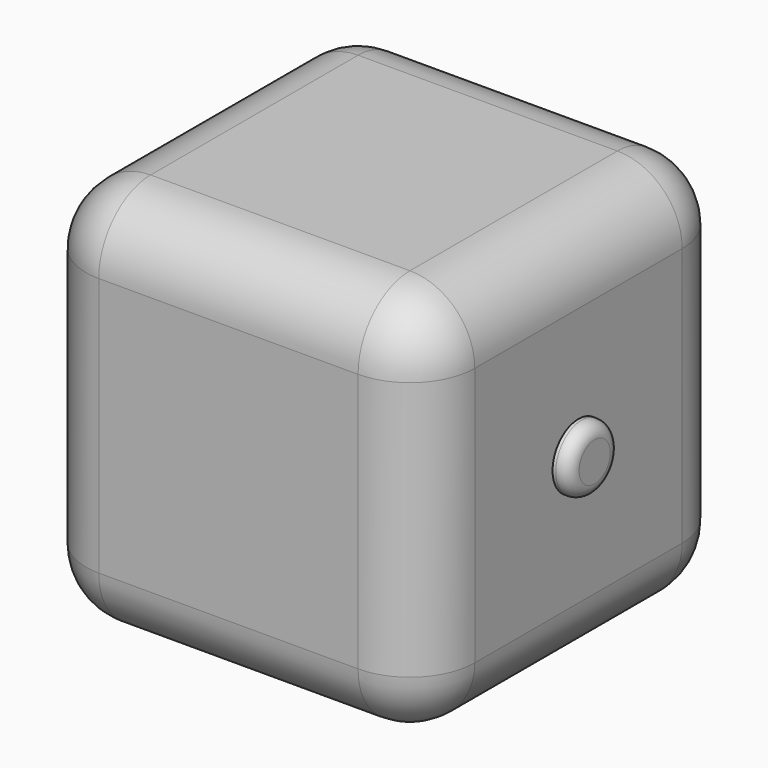
from build123d import *

# Parameters (mm, degrees)
F0_W      = 152.4
F0_H      = 152.4
F1_DEPTH  = 152.4
F2_R      = 25.4
F3_R      = 12.7
F4_DEPTH  = 6.35
F5_R      = 5.08
F6_R      = 12.7
F7_DEPTH  = 6.35
F8_R      = 5.08
F9_R      = 12.7
F10_DEPTH = 6.35
F11_R     = 5.08


with BuildPart() as f1:
    # F0 (on Top) → F1 (new body)
    with BuildSketch(Plane.XY):
        Rectangle(F0_W, F0_H)
    extrude(amount=F1_DEPTH)

    # F2
    f2_edges = [f1.edges().sort_by_distance(p)[0] for p in [
        (0, 76.2, 152.4),
        (-76.2, 0, 152.4),
        (0, -76.2, 152.4),
        (76.2, 0, 152.4),
        (-76.2, -76.2, 76.2),
        (76.2, -76.2, 76.2),
        (0, -76.2, 0),
        (76.2, 76.2, 76.2),
        (76.2, 0, 0),
        (-76.2, 76.2, 76.2),
        (-76.2, 0, 0),
        (0, 76.2, 0),
    ]]
    fillet(f2_edges, radius=F2_R)

    # F3 (on face) → F4 (join)
    with BuildSketch(Plane(origin=(0, 0, 0), x_dir=(1, 0, 0), z_dir=(0, 0, -1))):
        Circle(F3_R)
    extrude(amount=F4_DEPTH)

    # F5
    f5_edges = [f1.edges().sort_by_distance(p)[0] for p in [
        (-12.7, 0, -6.35),
    ]]
    fillet(f5_edges, radius=F5_R)

    # F6 (on face) → F7 (join)
    with BuildSketch(Plane(origin=(0, 76.2, 0), x_dir=(-1, 0, 0), z_dir=(0, 1, 0))):
        with Locations((0, 76.2)):
            Circle(F6_R)
    extrude(amount=F7_DEPTH)

    # F8
    f8_edges = [f1.edges().sort_by_distance(p)[0] for p in [
        (12.7, 82.55, 76.2),
    ]]
    fillet(f8_edges, radius=F8_R)


with BuildPart() as f10:
    # F9 (on face) → F10 (new body)
    with BuildSketch(Plane.YZ.offset(76.2)):
        with Locations((0, 76.2)):
            Circle(F9_R)
    extrude(amount=F10_DEPTH)

    # F11
    f11_edges = [f10.edges().sort_by_distance(p)[0] for p in [
        (82.55, -12.7, 76.2),
    ]]
    fillet(f11_edges, radius=F11_R)


solid = Compound([f1.part, f10.part])
